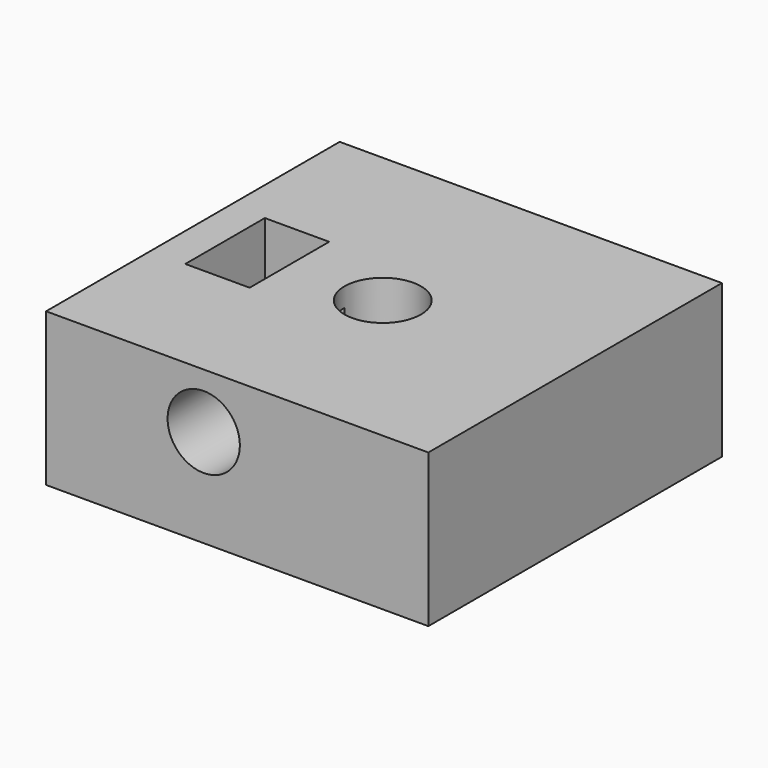
from build123d import *

# Parameters (mm, degrees)
SKETCH001_R      = 2.363467
EXTRUDE001_DEPTH = 12.5
SKETCH_W         = 25
SKETCH_H         = 24
SKETCH_R         = 2.5
SKETCH_W_2       = 4.20743
SKETCH_H_2       = 6.502393
EXTRUDE_DEPTH    = 10


with BuildPart() as extrude001:
    # Sketch001 (on Extrude) → Extrude001 (new body)
    with BuildSketch(Plane.XZ):
        with Locations((-2.363467, 6.40177)):
            Circle(SKETCH001_R)
    extrude(amount=EXTRUDE001_DEPTH)


with BuildPart() as cut:
    # Sketch → Extrude (new body)
    with BuildSketch(Plane.XY):
        with Locations((-0.173624, 0.317414)):
            Rectangle(SKETCH_W, SKETCH_H)
        Circle(SKETCH_R, mode=Mode.SUBTRACT)
        with Locations((-8.288003, 0.097125)):
            Rectangle(SKETCH_W_2, SKETCH_H_2, mode=Mode.SUBTRACT)
    extrude(amount=EXTRUDE_DEPTH)

    # Cut: cut Extrude001
    add(extrude001.part, mode=Mode.SUBTRACT)


solid = cut.part
